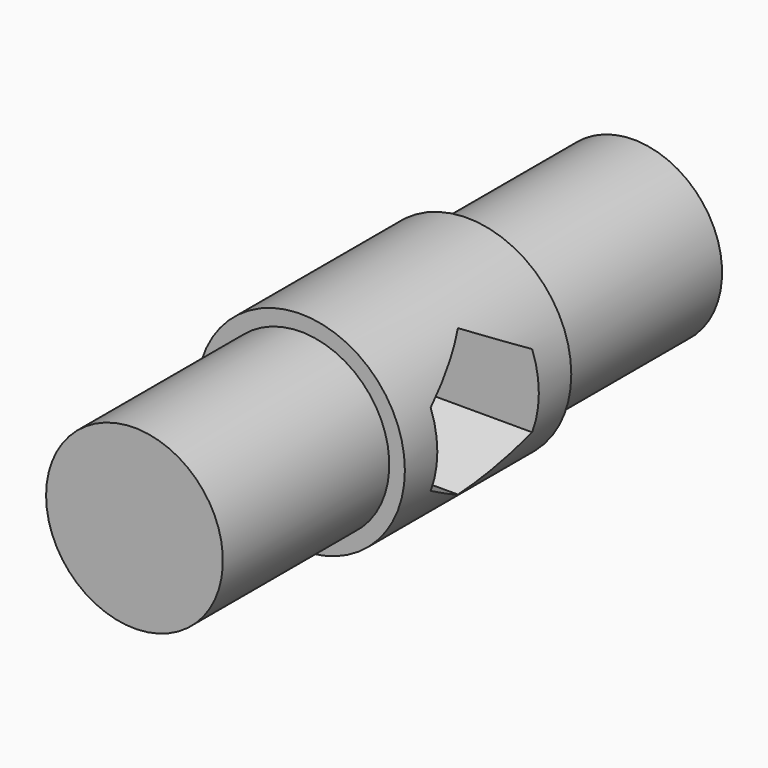
from build123d import *

# Parameters (mm, degrees)
CYLINDER001_R     = 4
CYLINDER001_DEPTH = 20
PAD_DEPTH         = 10
CYLINDER_R        = 10
CYLINDER_DEPTH    = 20
CYLINDER005_R     = 8.5
CYLINDER005_DEPTH = 20
CYLINDER004_R     = 8.5
CYLINDER004_DEPTH = 20


with BuildPart() as cylinder001:
    # Cylinder001 → Cylinder001 (new body)
    with BuildSketch(Plane.ZY.offset(-10)):
        Circle(CYLINDER001_R)
    extrude(amount=CYLINDER001_DEPTH)


with BuildPart() as negative_fusion:
    # Sketch → Pad (new body)
    with BuildSketch(Plane.YZ):
        Polygon((6.1, -3.521837), (6.1, 3.521837), (0, 7.043673), (-6.1, 3.521837), (-6.1, -3.521837), (0, -7.043673), align=None)
    extrude(amount=-PAD_DEPTH)


with BuildPart() as negative_fusion_1:
    # Body placement: moved
    add(negative_fusion.part.moved(Location((10, 0, 0))))

    # Fusion: union Cylinder001
    add(cylinder001.part)


with BuildPart() as cylinder:
    # Cylinder → Cylinder (new body)
    with BuildSketch(Plane(origin=(0, -10, 0), x_dir=(1, 0, 0), z_dir=(0, 1, 0))):
        Circle(CYLINDER_R)
    extrude(amount=CYLINDER_DEPTH)


with BuildPart() as cylinder005:
    # Cylinder005 → Cylinder005 (new body)
    with BuildSketch(Plane(origin=(0, 10, 0), x_dir=(-1, 0, 0), z_dir=(0, 1, 0))):
        Circle(CYLINDER005_R)
    extrude(amount=CYLINDER005_DEPTH)


with BuildPart() as cut:
    # Cylinder004 → Cylinder004 (new body)
    with BuildSketch(Plane(origin=(0, -10, 0), x_dir=(-1, 0, 0), z_dir=(0, -1, 0))):
        Circle(CYLINDER004_R)
    extrude(amount=CYLINDER004_DEPTH)

    # Fusion001: union Cylinder, Cylinder005
    add(cylinder.part)
    add(cylinder005.part)

    # Cut: cut Negative Fusion
    add(negative_fusion_1.part, mode=Mode.SUBTRACT)


solid = cut.part
